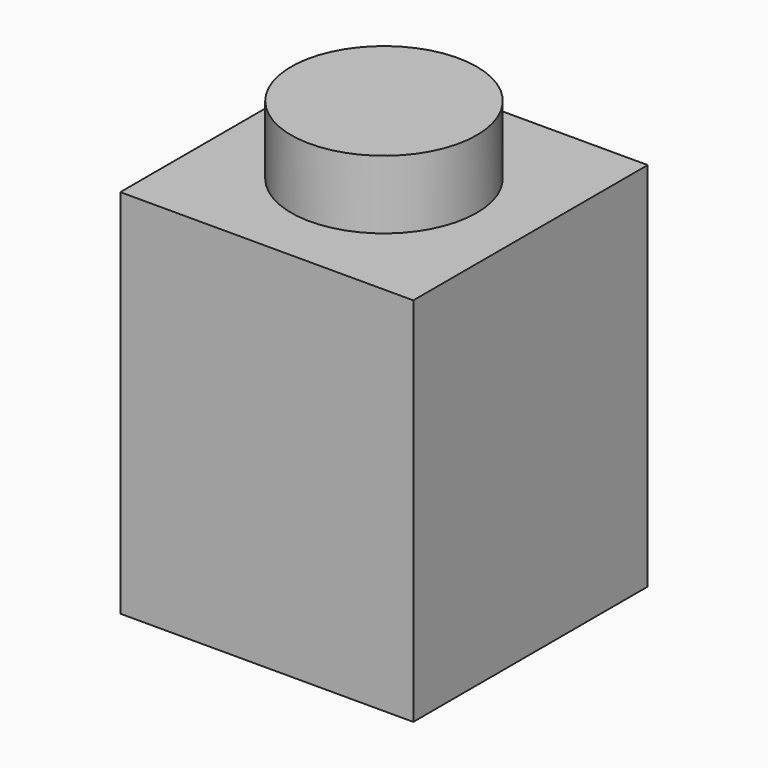
from build123d import *

# Parameters (mm, degrees)
F0_W     = 7.62
F0_H     = 7.62
F1_DEPTH = 9.652
F2_R     = 2.413
F3_DEPTH = 1.778
F4_W     = 6.2738
F4_H     = 6.2738
F5_DEPTH = 8.128


with BuildPart() as f1:
    # F0 (on Top) → F1 (new body)
    with BuildSketch(Plane.XY):
        Rectangle(F0_W, F0_H)
    extrude(amount=F1_DEPTH)

    # F2 (on face) → F3 (join)
    with BuildSketch(Plane.XY.offset(9.652)):
        Circle(F2_R)
    extrude(amount=F3_DEPTH)

    # F4 (on face) → F5 (cut)
    with BuildSketch(Plane(origin=(0, 0, 0), x_dir=(1, 0, 0), z_dir=(0, 0, -1))):
        Rectangle(F4_W, F4_H)
    extrude(amount=-F5_DEPTH, mode=Mode.SUBTRACT)


solid = f1.part
